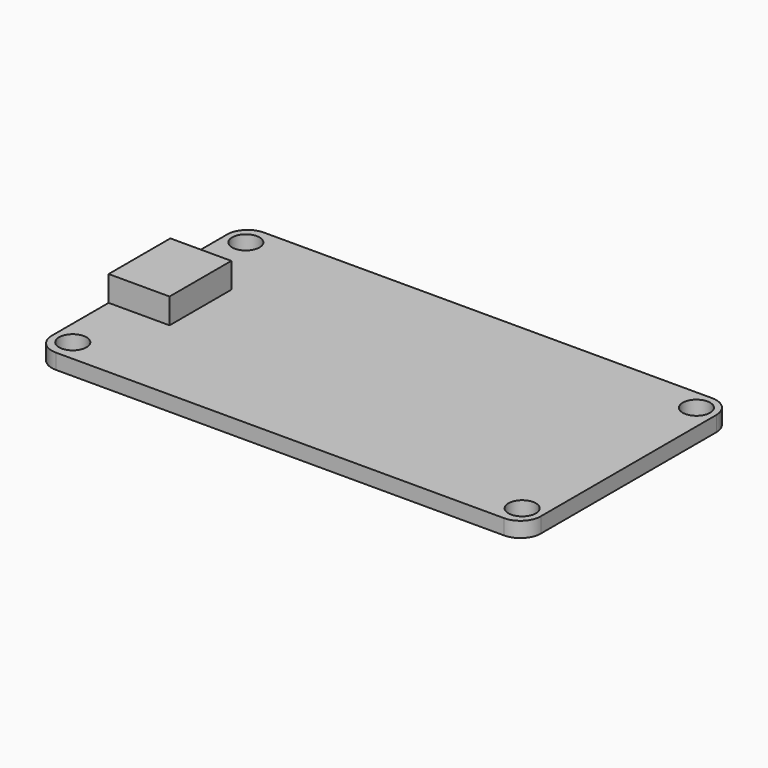
from build123d import *

# Parameters (mm, degrees)
F0_R     = 1.35
F1_DEPTH = 1.5
F2_W     = 6
F2_H     = 7.6
F3_DEPTH = 2.5


with BuildPart() as f1:
    # F0 (on Top) → F1 (new body)
    with BuildSketch(Plane.XY):
        with BuildLine():
            ThreePointArc((0, 2), (0.585786, 0.585786), (2, 0))
            Line((2, 0), (46.15, 0))
            ThreePointArc((46.15, 0), (47.564214, 0.585786), (48.15, 2))
            Line((48.15, 2), (48.15, 23.6))
            ThreePointArc((48.15, 23.6), (47.564214, 25.014214), (46.15, 25.6))
            Line((46.15, 25.6), (2, 25.6))
            ThreePointArc((2, 25.6), (0.585786, 25.014214), (0, 23.6))
            Line((0, 23.6), (0, 2))
        make_face()
        with Locations((1.95, 2.15)):
            Circle(F0_R, mode=Mode.SUBTRACT)
        with Locations((46.2, 2.15)):
            Circle(F0_R, mode=Mode.SUBTRACT)
        with Locations((1.95, 23.45)):
            Circle(F0_R, mode=Mode.SUBTRACT)
        with Locations((46.2, 23.6)):
            Circle(F0_R, mode=Mode.SUBTRACT)
    extrude(amount=F1_DEPTH)

    # F2 (on face) → F3 (join)
    with BuildSketch(Plane.XY.offset(1.5)):
        with Locations((3, 12.8)):
            Rectangle(F2_W, F2_H)
    extrude(amount=F3_DEPTH)


solid = f1.part
